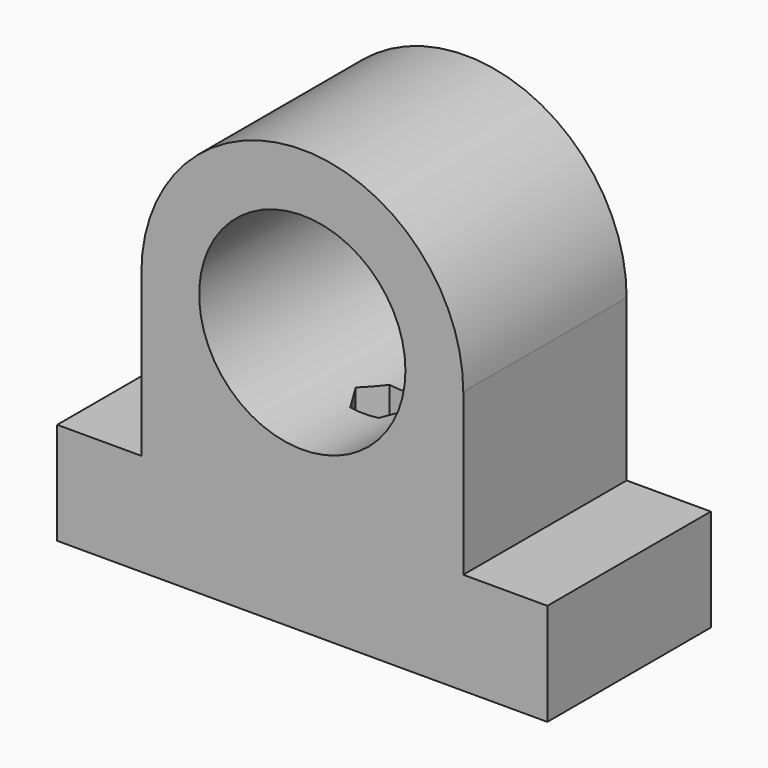
from build123d import *

# Parameters (mm, degrees)
F0_R     = 25.25
F1_DEPTH = 50
F4_D     = 7
F4_DEPTH = 70
F4_TIP   = 2.1030121666
F6_DEPTH = 25


with BuildPart() as f1:
    # F0 (on Front) → F1 (new body)
    with BuildSketch(Plane.XZ):
        with BuildLine():
            ThreePointArc((0, -39.4056375813), (27.8639935507, -27.8639935507), (39.4056375813, 0))
            ThreePointArc((39.4056375813, 0), (0, 39.4056375813), (-39.4056375813, 0))
            ThreePointArc((-39.4056375813, 0), (-27.8639935507, -27.8639935507), (0, -39.4056375813))
        make_face()
        Circle(F0_R, mode=Mode.SUBTRACT)
        with BuildLine():
            ThreePointArc((0, -39.4056375813), (-27.8639935507, -27.8639935507), (-39.4056375813, 0))
            Line((-39.4056375813, 0), (-39.4056375813, -39.4056375813))
            Line((-39.4056375813, -39.4056375813), (0, -39.4056375813))
        make_face()
        Polygon((0, -64.4255876541), (0, -39.4056375813), (-39.4056375813, -39.4056375813), (-60, -39.4056375813), (-60, -64.4255876541), align=None)
        Polygon((39.4056375813, -39.4056375813), (0, -39.4056375813), (0, -64.4255876541), (60, -64.4255876541), (60, -39.4056375813), align=None)
        with BuildLine():
            Line((39.4056375813, -39.4056375813), (39.4056375813, 0))
            ThreePointArc((39.4056375813, 0), (27.8639935507, -27.8639935507), (0, -39.4056375813))
            Line((0, -39.4056375813), (39.4056375813, -39.4056375813))
        make_face()
    extrude(amount=F1_DEPTH)

    # F4
    with Locations(Plane(origin=(0, 0, -64.4255876541), x_dir=(1, 0, 0), z_dir=(0, 0, -1))):
        with Locations((0, 25)):
            Hole(F4_D / 2, depth=F4_DEPTH)
            with Locations((0, 0, -(F4_DEPTH + F4_TIP / 2))):  # 118° drill point
                Cone(0, F4_D / 2, F4_TIP, mode=Mode.SUBTRACT)

    # F5 (on offset) → F6 (cut)
    with BuildSketch(Plane(origin=(0, 0, -39.4255876541), x_dir=(1, 0, 0), z_dir=(0, 0, -1))):
        Polygon((-3.4745540902, 18.9818957821), (3.4745540902, 18.9818957821), (6.9491081805, 25), (3.4745540902, 31.0181042179), (-3.4745540902, 31.0181042179), (-6.9491081805, 25), align=None)
    extrude(amount=-F6_DEPTH, mode=Mode.SUBTRACT)


solid = f1.part
